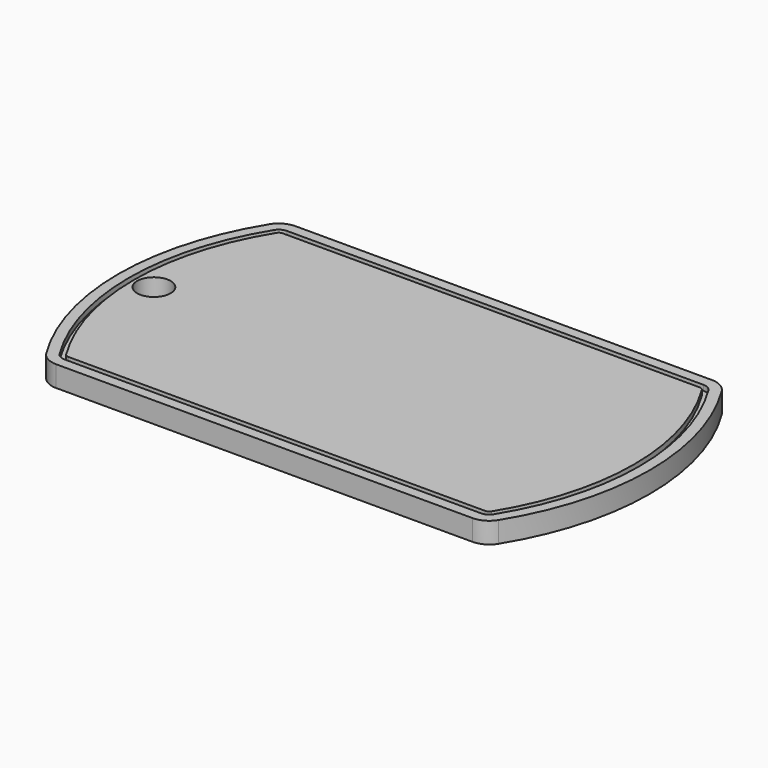
from build123d import *

# Parameters (mm, degrees)
F0_R     = 1.6
F1_DEPTH = 2
F3_DEPTH = 0.5


with BuildPart() as f1:
    # F0 (on Top) → F1 (new body)
    with BuildSketch(Plane.XY):
        with BuildLine():
            Line((-19.906532, -14.3), (19.906532, -14.3))
            ThreePointArc((19.906532, -14.3), (20.880553, -14.046792), (21.607945, -13.351282))
            ThreePointArc((21.607945, -13.351282), (25.4, 0), (21.607945, 13.351282))
            ThreePointArc((21.607945, 13.351282), (20.880553, 14.046792), (19.906532, 14.3))
            Line((19.906532, 14.3), (-19.906532, 14.3))
            ThreePointArc((-19.906532, 14.3), (-20.880553, 14.046792), (-21.607945, 13.351282))
            ThreePointArc((-21.607945, 13.351282), (-25.4, 0), (-21.607945, -13.351282))
            ThreePointArc((-21.607945, -13.351282), (-20.880553, -14.046792), (-19.906532, -14.3))
        make_face()
        with Locations((-22, 0)):
            Circle(F0_R, mode=Mode.SUBTRACT)
    extrude(amount=F1_DEPTH)

    # F2 (on face) → F3 (cut)
    with BuildSketch(Plane.XY.offset(2)):
        with BuildLine():
            ThreePointArc((19.906532, -13.3), (20.393542, -13.173396), (20.757238, -12.825641))
            ThreePointArc((20.757238, -12.825641), (24.4, 0), (20.757238, 12.825641))
            ThreePointArc((20.757238, 12.825641), (20.393542, 13.173396), (19.906532, 13.3))
            Line((19.906532, 13.3), (-19.906532, 13.3))
            ThreePointArc((-19.906532, 13.3), (-20.393542, 13.173396), (-20.757238, 12.825641))
            ThreePointArc((-20.757238, 12.825641), (-24.4, 0), (-20.757238, -12.825641))
            ThreePointArc((-20.757238, -12.825641), (-20.393542, -13.173396), (-19.906532, -13.3))
            Line((-19.906532, -13.3), (19.906532, -13.3))
        make_face()
        with BuildLine():
            ThreePointArc((20.331885, 12.562821), (23.9, 0), (20.331885, -12.562821))
            ThreePointArc((20.331885, -12.562821), (20.150037, -12.736698), (19.906532, -12.8))
            Line((19.906532, -12.8), (-19.906532, -12.8))
            ThreePointArc((-19.906532, -12.8), (-20.150037, -12.736698), (-20.331885, -12.562821))
            ThreePointArc((-20.331885, -12.562821), (-23.9, 0), (-20.331885, 12.562821))
            ThreePointArc((-20.331885, 12.562821), (-20.150037, 12.736698), (-19.906532, 12.8))
            Line((-19.906532, 12.8), (19.906532, 12.8))
            ThreePointArc((19.906532, 12.8), (20.150037, 12.736698), (20.331885, 12.562821))
        make_face(mode=Mode.SUBTRACT)
    extrude(amount=-F3_DEPTH, mode=Mode.SUBTRACT)


solid = f1.part
